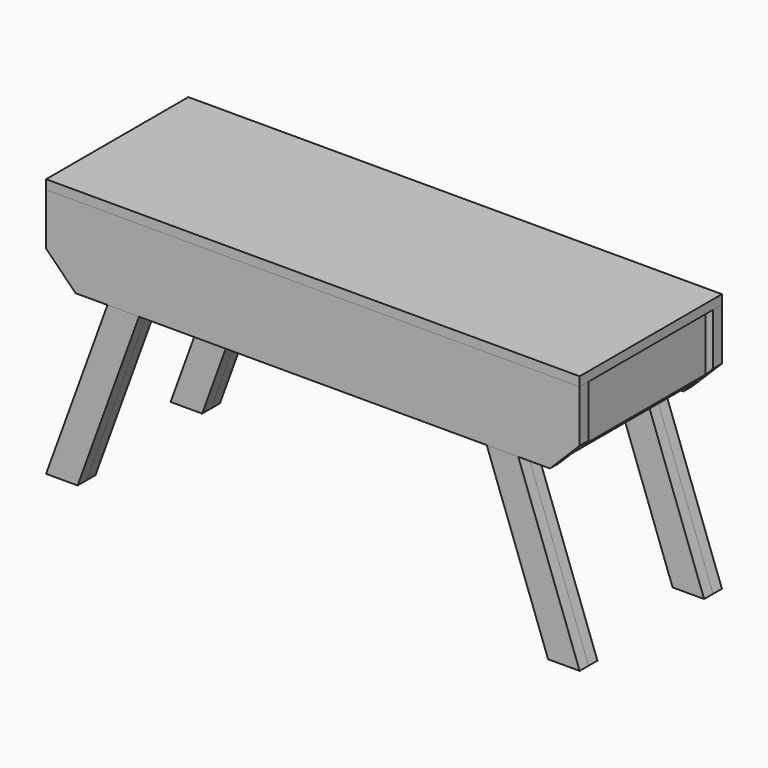
from build123d import *

# Parameters (mm, degrees)
F1_DEPTH  = 609.6
F2_DEPTH  = 38.1
F3_DEPTH  = 38.1
F5_DEPTH  = 38.1
F8_DEPTH  = 38.1
F6_W      = 38.1
F6_H      = 63.5
F12_DEPTH = 533.4


with BuildPart() as f1:
    # F0 (on Front) → F1 (new body)
    with BuildSketch(Plane.XZ):
        Polygon((914.4, 889), (-914.4, 889), (-914.4, 857.25), (-602.3865166753, 857.25), (-494.2660549917, 857.25), (494.2660549917, 857.25), (602.3865166753, 857.25), (914.4, 857.25), align=None)
    extrude(amount=F1_DEPTH)


with BuildPart() as f2:
    # F0 (on Front) → F2 (new body)
    with BuildSketch(Plane.XZ):
        Polygon((-602.3865166753, 857.25), (-914.4, 857.25), (-914.4, 679.45), (-812.8, 577.85), (-704.0798001293, 577.85), align=None)
        Polygon((494.2660549917, 857.25), (-494.2660549917, 857.25), (-595.9593384457, 577.85), (595.9593384457, 577.85), align=None)
        Polygon((704.0798001293, 577.85), (602.3865166753, 857.25), (494.2660549917, 857.25), (595.9593384457, 577.85), align=None)
        Polygon((914.4, 679.45), (914.4, 857.25), (602.3865166753, 857.25), (704.0798001293, 577.85), (812.8, 577.85), align=None)
        Polygon((-494.2660549917, 857.25), (-602.3865166753, 857.25), (-704.0798001293, 577.85), (-595.9593384457, 577.85), align=None)
        Polygon((-602.3865166753, 857.25), (-914.4, 857.25), (-914.4, 679.45), (-812.8, 577.85), (-704.0798001293, 577.85), align=None)
        Polygon((914.4, 679.45), (914.4, 857.25), (602.3865166753, 857.25), (704.0798001293, 577.85), (812.8, 577.85), align=None)
    extrude(amount=F2_DEPTH)


with BuildPart() as f3:
    # F0 (on Front) → F3 (new body, through all)
    with BuildSketch(Plane.XZ):
        Polygon((-595.9593384457, 577.85), (-704.0798001293, 577.85), (-914.4, 0), (-806.2795383164, 0), align=None)
    extrude(amount=F3_DEPTH)


with BuildPart() as f3b:
    # F0 (on Front) → F3, piece 2 (new body, through all)
    with BuildSketch(Plane.XZ):
        Polygon((914.4, 0), (704.0798001293, 577.85), (595.9593384457, 577.85), (806.2795383164, 0), align=None)
    extrude(amount=F3_DEPTH)


with BuildPart() as f5:
    # F4 (on face) → F5 (new body)
    with BuildSketch(Plane.XZ.offset(38.1)):
        Polygon((-704.0798001293, 577.85), (-595.9593384457, 577.85), (-494.2660549917, 857.25), (-602.3865166753, 857.25), align=None)
        Polygon((-914.4, 0), (-806.2795383164, 0), (-595.9593384457, 577.85), (-704.0798001293, 577.85), align=None)
    extrude(amount=F5_DEPTH)


with BuildPart() as f5b:
    # F4 (on face) → F5, piece 2 (new body)
    with BuildSketch(Plane.XZ.offset(38.1)):
        Polygon((494.2660549917, 857.25), (595.9593384457, 577.85), (704.0798001293, 577.85), (602.3865166753, 857.25), align=None)
        Polygon((704.0798001293, 577.85), (595.9593384457, 577.85), (806.2795383164, 0), (914.4, 0), align=None)
    extrude(amount=F5_DEPTH)


with BuildPart() as f8:
    # F7 (on face) → F8 (new body)
    with BuildSketch(Plane.XZ.offset(609.6)):
        Polygon((-704.0798001293, 577.85), (-602.3865166753, 857.25), (-914.4, 857.25), (-914.4, 679.45), (-812.8, 577.85), align=None)
        Polygon((-595.9593384457, 577.85), (-494.2660549917, 857.25), (-602.3865166753, 857.25), (-704.0798001293, 577.85), align=None)
        Polygon((595.9593384457, 577.85), (494.2660549917, 857.25), (-494.2660549917, 857.25), (-595.9593384457, 577.85), align=None)
        Polygon((602.3865166753, 857.25), (494.2660549917, 857.25), (595.9593384457, 577.85), (704.0798001293, 577.85), align=None)
        Polygon((914.4, 857.25), (602.3865166753, 857.25), (704.0798001293, 577.85), (812.8, 577.85), (914.4, 679.45), align=None)
    extrude(amount=-F8_DEPTH)


with BuildPart() as f11_1:
    # F11: instance of F5b
    add(f5b.part.mirror(Plane.XZ.offset(304.8)))


with BuildPart() as f11_2:
    # F11: instance of F5
    add(f5.part.mirror(Plane.XZ.offset(304.8)))


with BuildPart() as f11_3:
    # F11: instance of F3
    add(f3.part.mirror(Plane.XZ.offset(304.8)))


with BuildPart() as f11_4:
    # F11: instance of F3b
    add(f3b.part.mirror(Plane.XZ.offset(304.8)))


with BuildPart() as f12:
    # F6 (on face) → F12 (new body, through all)
    with BuildSketch(Plane.XZ.offset(38.1)):
        with Locations((-831.85, 825.5)):
            Rectangle(F6_W, F6_H)
    extrude(amount=F12_DEPTH)


with BuildPart() as f12b:
    # F6 (on face) → F12, piece 2 (new body, through all)
    with BuildSketch(Plane.XZ.offset(38.1)):
        with Locations((-400.05, 825.5)):
            Rectangle(F6_W, F6_H)
    extrude(amount=F12_DEPTH)


with BuildPart() as f12c:
    # F6 (on face) → F12, piece 3 (new body, through all)
    with BuildSketch(Plane.XZ.offset(38.1)):
        with Locations((31.75, 825.5)):
            Rectangle(F6_W, F6_H)
    extrude(amount=F12_DEPTH)


with BuildPart() as f12d:
    # F6 (on face) → F12, piece 4 (new body, through all)
    with BuildSketch(Plane.XZ.offset(38.1)):
        Polygon((889, 857.25), (857.25, 857.25), (857.25, 622.3), (889, 654.05), align=None)
    extrude(amount=F12_DEPTH)


solid = Compound([f1.part, f2.part, f3.part, f3b.part, f5.part, f5b.part, f8.part, f11_1.part, f11_2.part, f11_3.part, f11_4.part, f12.part, f12b.part, f12c.part, f12d.part])
